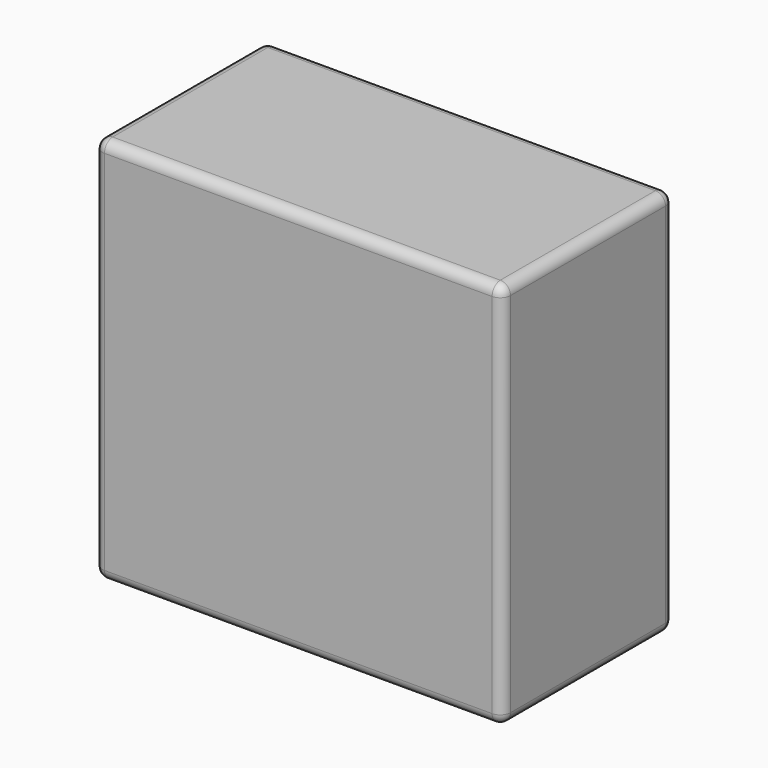
from build123d import *

# Parameters (mm, degrees)
SKETCH_W  = 40
SKETCH_H  = 21
PAD_DEPTH = 38
FILLET_R  = 1


with BuildPart() as part:
    # Sketch → Pad (new body)
    with BuildSketch(Plane.XY):
        Rectangle(SKETCH_W, SKETCH_H)
    extrude(amount=PAD_DEPTH)

    # Fillet
    fillet_edges = [part.edges().sort_by_distance(p)[0] for p in [
        (-20, 10.5, 19),
        (20, 10.5, 19),
        (0, 10.5, 0),
        (0, 10.5, 38),
        (20, -10.5, 19),
        (20, 0, 0),
        (20, 0, 38),
        (-20, -10.5, 19),
        (0, -10.5, 0),
        (0, -10.5, 38),
        (-20, 0, 0),
        (-20, 0, 38),
    ]]
    fillet(fillet_edges, radius=FILLET_R)


solid = part.part
